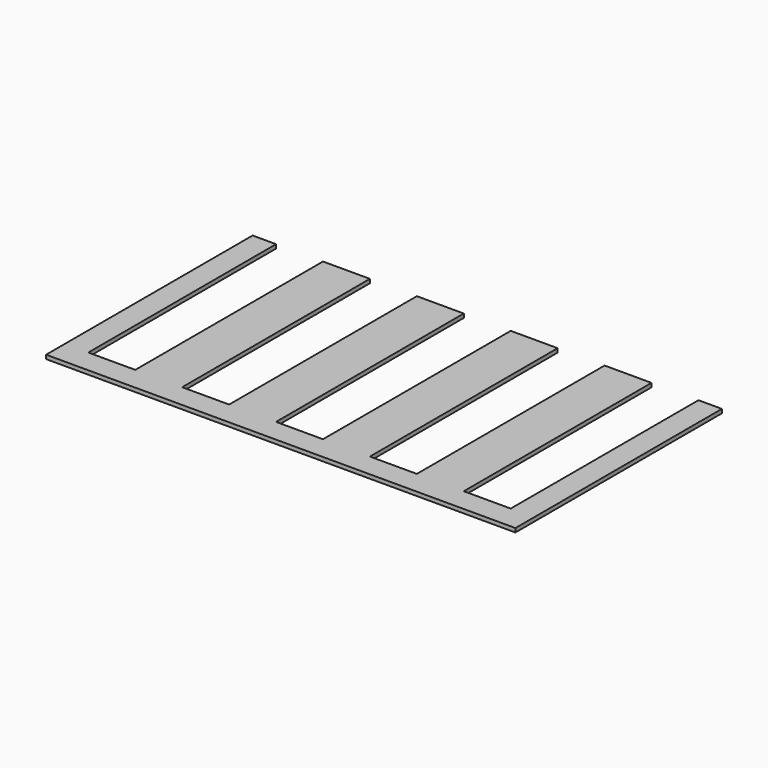
from build123d import *

# Parameters (mm, degrees)
F1_DEPTH = 0.5


with BuildPart() as f1:
    # F0 (on Top) → F1 (new body)
    with BuildSketch(Plane.XY):
        Polygon((3, -10), (-3, -10), (-3, 20), (-9, 20), (-9, -10), (-15, -10), (-15, 20), (-21, 20), (-21, -10), (-27, -10), (-27, 20), (-30, 20), (-30, -13), (30, -13), (30, 20), (27, 20), (27, -10), (21, -10), (21, 20), (15, 20), (15, -10), (9, -10), (9, 20), (3, 20), align=None)
    extrude(amount=F1_DEPTH)


solid = f1.part
